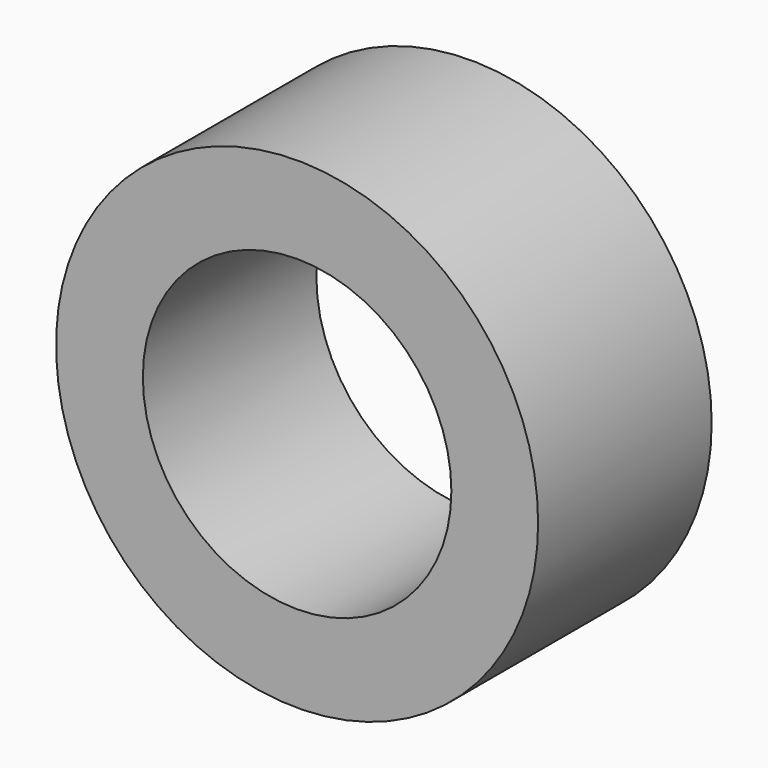
from build123d import *

# Parameters (mm, degrees)
CYLINDER233_R          = 3.2
CYLINDER233_DEPTH      = 16
CYLINDER_R             = 5
CYLINDER_DEPTH         = 4.5
CUT277_PLACEMENT_ANGLE = 90


with BuildPart() as cylinder233:
    # Cylinder233 → Cylinder233 (new body)
    with BuildSketch(Plane.XY.offset(-3)):
        Circle(CYLINDER233_R)
    extrude(amount=CYLINDER233_DEPTH)


with BuildPart() as cut277:
    # Cylinder → Cylinder (new body)
    with BuildSketch(Plane.XY):
        Circle(CYLINDER_R)
    extrude(amount=CYLINDER_DEPTH)

    # Cut277: cut Cylinder233
    add(cylinder233.part, mode=Mode.SUBTRACT)


with BuildPart() as cut277_1:
    # Cut277 placement: moved
    add(cut277.part.moved(Location((114, -3.3, 62.4))).rotate(Axis((114, -3.3, 62.4), (1, 0, 0)), CUT277_PLACEMENT_ANGLE))


solid = cut277_1.part
